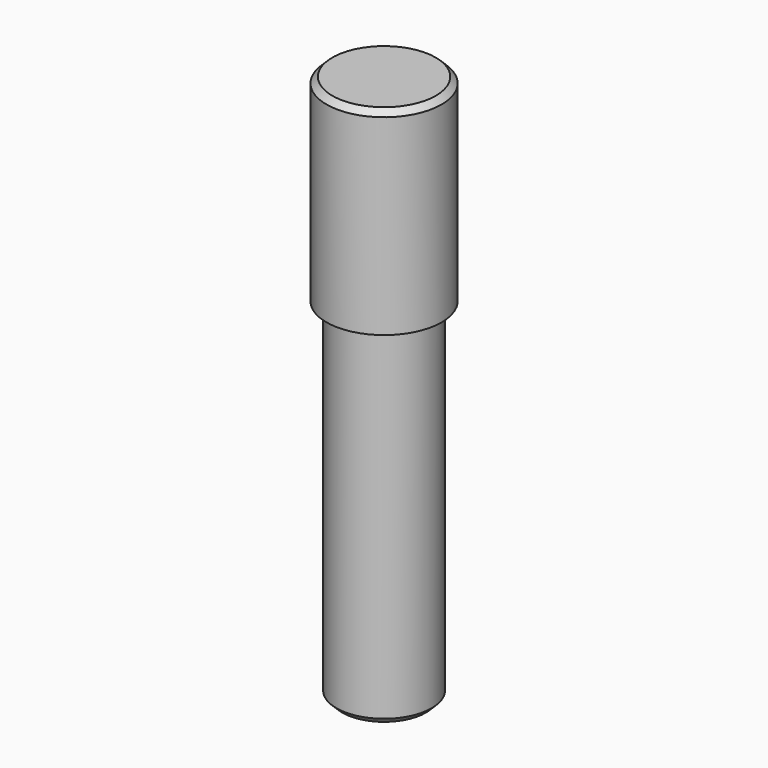
from build123d import *

# Parameters (mm, degrees)
F0_R     = 4.95
F0_R_2   = 4.1
F1_DEPTH = 17
F2_DEPTH = 30
F3_SIZE  = 0.5


with BuildPart() as f1:
    # F0 (on Top) → F1 (new body)
    with BuildSketch(Plane.XY):
        Circle(F0_R)
        Circle(F0_R_2, mode=Mode.SUBTRACT)
        Circle(F0_R_2)
    extrude(amount=F1_DEPTH)

    # F0 (on Top) → F2 (join)
    with BuildSketch(Plane.XY):
        Circle(F0_R_2)
    extrude(amount=-F2_DEPTH)

    # F3
    f3_edges = [f1.edges().sort_by_distance(p)[0] for p in [
        (-4.95, 0, 17),
        (-4.1, 0, -30),
    ]]
    chamfer(f3_edges, length=F3_SIZE)


solid = f1.part
